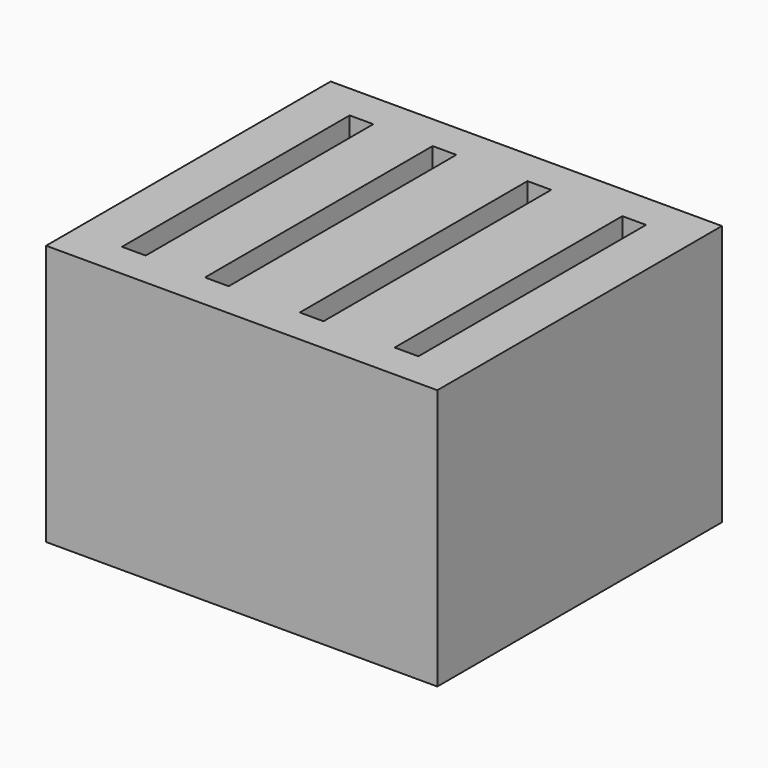
from build123d import *

# Parameters (mm, degrees)
BOX002_W     = 2
BOX002_H     = 24
BOX002_DEPTH = 25
BOX003_W     = 2
BOX003_H     = 24
BOX003_DEPTH = 25
BOX004_W     = 2
BOX004_H     = 24
BOX004_DEPTH = 25
BOX001_W     = 2
BOX001_H     = 24
BOX001_DEPTH = 25
BOX_W        = 33
BOX_H        = 30
BOX_DEPTH    = 22


with BuildPart() as cub002:
    # Box002 → Box002 (new body)
    with BuildSketch(Plane(origin=(27, 3, -1), x_dir=(1, 0, 0), z_dir=(0, 0, 1))):
        with Locations((1, 12)):
            Rectangle(BOX002_W, BOX002_H)
    extrude(amount=BOX002_DEPTH)


with BuildPart() as cub003:
    # Box003 → Box003 (new body)
    with BuildSketch(Plane(origin=(19, 3, -1), x_dir=(1, 0, 0), z_dir=(0, 0, 1))):
        with Locations((1, 12)):
            Rectangle(BOX003_W, BOX003_H)
    extrude(amount=BOX003_DEPTH)


with BuildPart() as cub004:
    # Box004 → Box004 (new body)
    with BuildSketch(Plane(origin=(11, 3, -1), x_dir=(1, 0, 0), z_dir=(0, 0, 1))):
        with Locations((1, 12)):
            Rectangle(BOX004_W, BOX004_H)
    extrude(amount=BOX004_DEPTH)


with BuildPart() as cub001:
    # Box001 → Box001 (new body)
    with BuildSketch(Plane(origin=(4, 3, -1), x_dir=(1, 0, 0), z_dir=(0, 0, 1))):
        with Locations((1, 12)):
            Rectangle(BOX001_W, BOX001_H)
    extrude(amount=BOX001_DEPTH)


with BuildPart() as cut003:
    # Box → Box (new body)
    with BuildSketch(Plane.XY):
        with Locations((16.5, 15)):
            Rectangle(BOX_W, BOX_H)
    extrude(amount=BOX_DEPTH)

    # Cut: cut Cub001
    add(cub001.part, mode=Mode.SUBTRACT)

    # Cut001: cut Cub004
    add(cub004.part, mode=Mode.SUBTRACT)

    # Cut002: cut Cub003
    add(cub003.part, mode=Mode.SUBTRACT)

    # Cut003: cut Cub002
    add(cub002.part, mode=Mode.SUBTRACT)


solid = cut003.part
